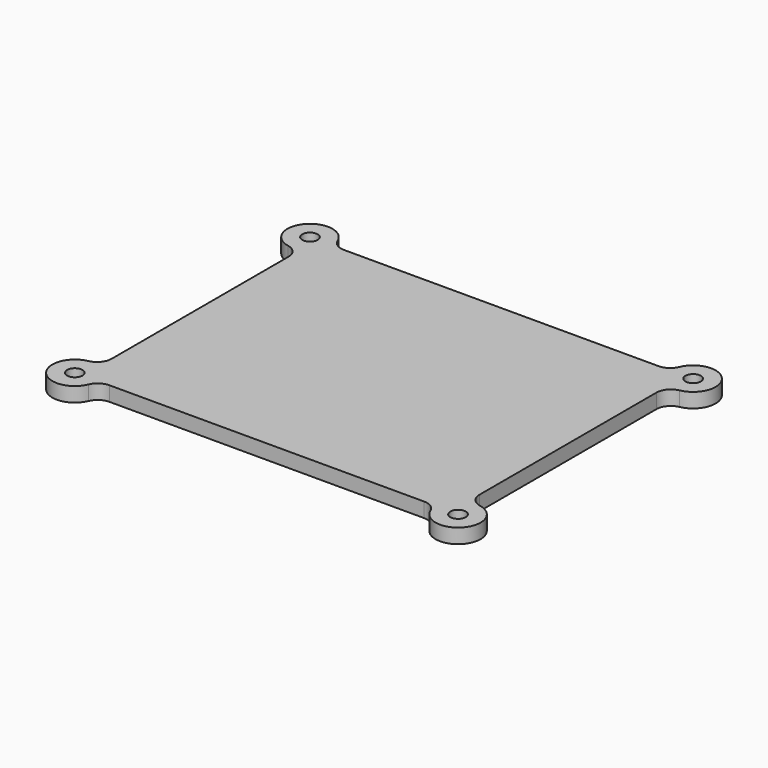
from build123d import *

# Parameters (mm, degrees)
F0_R     = 1.6764
F1_DEPTH = 3.175


with BuildPart() as f1:
    # F0 (on Top) → F1 (new body)
    with BuildSketch(Plane.XY):
        with BuildLine():
            Line((34.223326, 31.877), (-34.216899, 31.877))
            ThreePointArc((-34.216899, 31.877), (-35.978592, 32.410587), (-37.148148, 33.832))
            ThreePointArc((-37.148148, 33.832), (-45.455396, 35.038557), (-42.58247, 27.15107))
            ThreePointArc((-42.58247, 27.15107), (-40.732779, 26.055608), (-40.005, 24.032805))
            Line((-40.005, 24.032805), (-40.005, 18.161))
            Line((-40.005, 18.161), (-40.005, -23.749))
            Line((-40.005, -23.749), (-40.005, -24.031576))
            ThreePointArc((-40.005, -24.031576), (-40.7336, -26.055372), (-42.585, -27.150325))
            ThreePointArc((-42.585, -27.150325), (-45.463075, -35.037018), (-37.154575, -33.832))
            ThreePointArc((-37.154575, -33.832), (-35.985019, -32.410587), (-34.223326, -31.877))
            Line((-34.223326, -31.877), (34.223326, -31.877))
            ThreePointArc((34.223326, -31.877), (35.985019, -32.410587), (37.154575, -33.832))
            ThreePointArc((37.154575, -33.832), (45.463075, -35.037018), (42.585, -27.150325))
            ThreePointArc((42.585, -27.150325), (40.7336, -26.055372), (40.005, -24.031576))
            Line((40.005, -24.031576), (40.005, 24.031576))
            ThreePointArc((40.005, 24.031576), (40.7336, 26.055372), (42.585, 27.150325))
            ThreePointArc((42.585, 27.150325), (45.463075, 35.037018), (37.154575, 33.832))
            ThreePointArc((37.154575, 33.832), (35.985019, 32.410587), (34.223326, 31.877))
        make_face()
        with Locations((-41.6687, -31.9532)):
            Circle(F0_R, mode=Mode.SUBTRACT)
        with Locations((41.6687, -31.9532)):
            Circle(F0_R, mode=Mode.SUBTRACT)
        with Locations((-41.662273, 31.9532)):
            Circle(F0_R, mode=Mode.SUBTRACT)
        with Locations((41.6687, 31.9532)):
            Circle(F0_R, mode=Mode.SUBTRACT)
    extrude(amount=F1_DEPTH)


solid = f1.part
